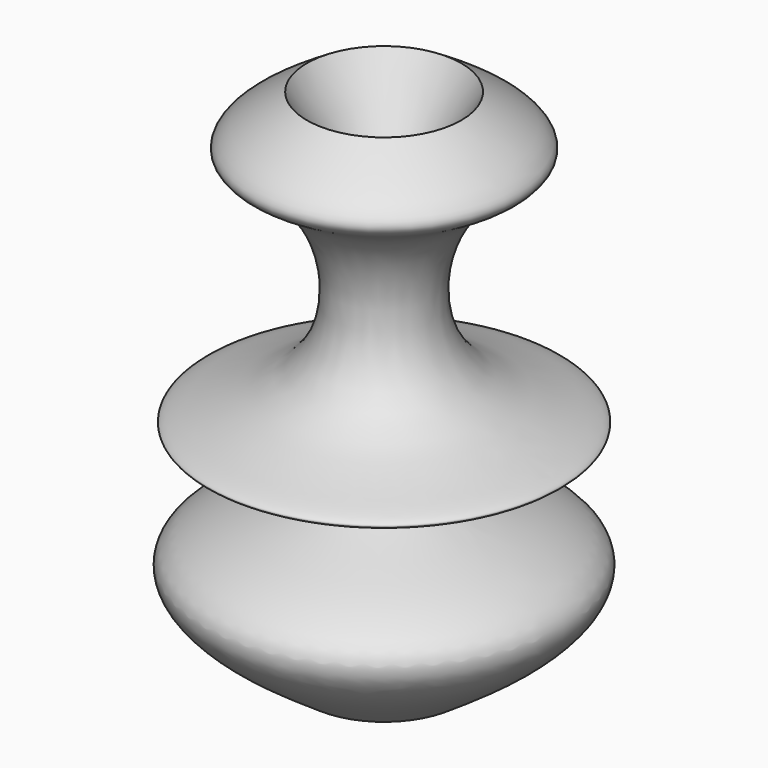
from build123d import *


with BuildPart() as f1:
    # F0 (on Front) → F1 (revolve)
    with BuildSketch(Plane.XZ):
        with BuildLine():
            Line((0.3576842137, 43.4589721262), (0, 43.4589721262))
            Line((0, 43.4589721262), (0, -45.2474020422))
            Line((0, -45.2474020422), (15.7382264733, -45.2474020422))
            add(Edge.make_bspline(
                [(15.7382264733, -45.2474020422), (28.2056188574, -36.8338566759), (53.1942229062, -19.9704463229), (-15.3934433186, -6.8196224252), (54.6696715706, 0.0172552135), (5.8043258443, 5.2640354267), (10.7167742313, 42.9773273551), (34.026576963, 48.0923079292), (21.8795733949, 55.705677855), (15.7382264733, 59.5548860729)],
                knots=[0, 0, 0, 0, 0.1602467741, 0.3211853021, 0.4764601964, 0.6141196226, 0.7723332387, 0.8848950232, 1, 1, 1, 1], degree=3))
            Line((15.7382264733, 59.5548860729), (6.4383614808, 43.4589721262))
            Line((6.4383614808, 43.4589721262), (0.3576842137, 43.4589721262))
        make_face()
    revolve(axis=Axis((0, 0, -0.894214958), (0, 0, -1)))


solid = f1.part
